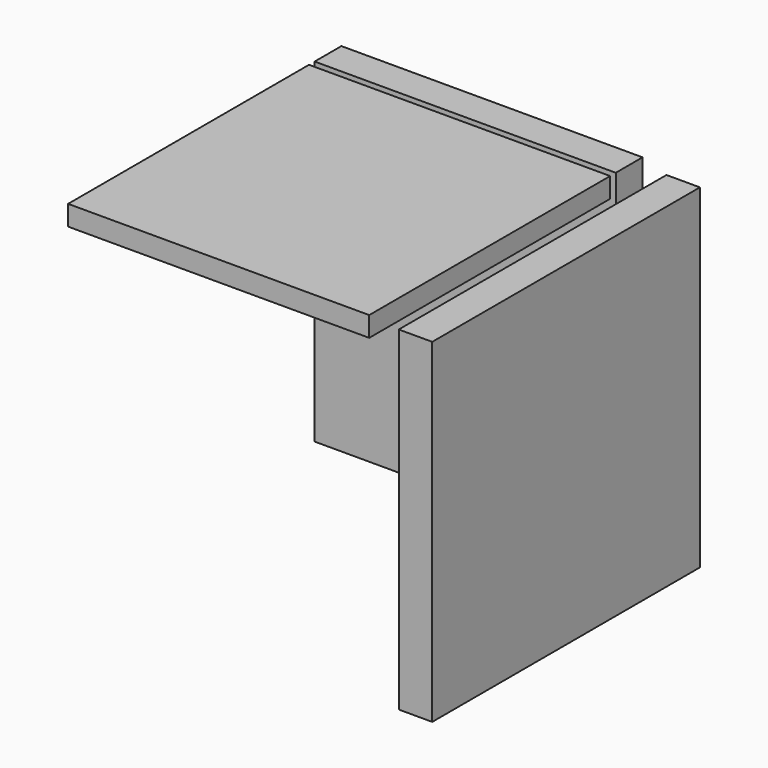
from build123d import *

# Parameters (mm, degrees)
F0_W     = 90
F0_H     = 90
F1_DEPTH = 6
F2_W     = 10
F2_H     = 100
F3_DEPTH = 100
F4_W     = 90
F4_H     = 10
F5_DEPTH = 100


with BuildPart() as f1:
    # F0 (on Top) → F1 (new body)
    with BuildSketch(Plane.XY):
        with Locations((-16.710529, -19.013161)):
            Rectangle(F0_W, F0_H)
    extrude(amount=-F1_DEPTH)


with BuildPart() as f3:
    # F2 (on Top) → F3 (new body)
    with BuildSketch(Plane.XY):
        with Locations((43.223684, -15.394737)):
            Rectangle(F2_W, F2_H)
    extrude(amount=-F3_DEPTH)


with BuildPart() as f5:
    # F4 (on Top) → F5 (new body)
    with BuildSketch(Plane.XY):
        with Locations((-16.710529, 33.092107)):
            Rectangle(F4_W, F4_H)
    extrude(amount=-F5_DEPTH)


solid = Compound([f1.part, f3.part, f5.part])
